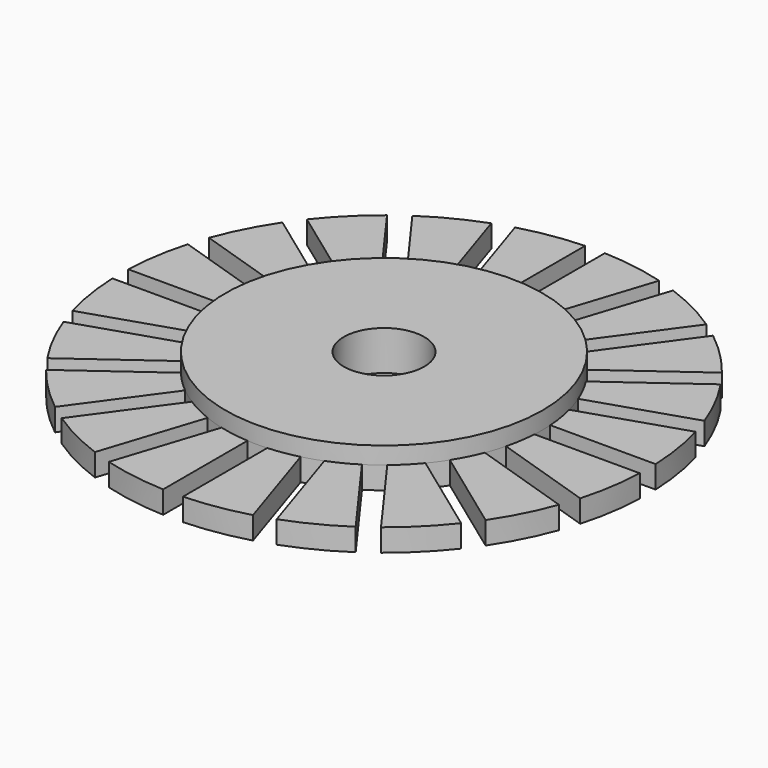
from build123d import *

# Parameters (mm, degrees)
SKETCH_R           = 20
SKETCH_R_2         = 3.05
PAD_DEPTH          = 1.7
SKETCH001_W        = 1.5
SKETCH001_H        = 8
POCKET_DEPTH       = 114.889162
POLARPATTERN_COUNT = 20
SKETCH002_R        = 12.023415
SKETCH002_R_2      = 3.05
PAD001_DEPTH       = 1.3


with BuildPart() as part:
    # Sketch → Pad (new body)
    with BuildSketch(Plane.XY):
        Circle(SKETCH_R)
        Circle(SKETCH_R_2, mode=Mode.SUBTRACT)
    extrude(amount=PAD_DEPTH)

    # Sketch001 (on Face4 of Pad) → Pocket (cut, through all)
    with BuildSketch(Plane.XY.offset(1.7)):
        with Locations((0, 16)):
            Rectangle(SKETCH001_W, SKETCH001_H)
    pocket = extrude(amount=-POCKET_DEPTH, mode=Mode.SUBTRACT)

    # PolarPattern: Pocket ×20 about axis
    polarpattern_axis = Axis((0, 0, 1.7), (0, 0, 1))
    for i in range(1, POLARPATTERN_COUNT):
        add(pocket.rotate(polarpattern_axis, i * 360 / POLARPATTERN_COUNT), mode=Mode.SUBTRACT)

    # Sketch002 (on Face4 of PolarPattern) → Pad001 (join)
    with BuildSketch(Plane.XY.offset(1.7)):
        Circle(SKETCH002_R)
        Circle(SKETCH002_R_2, mode=Mode.SUBTRACT)
    extrude(amount=PAD001_DEPTH)


solid = part.part
